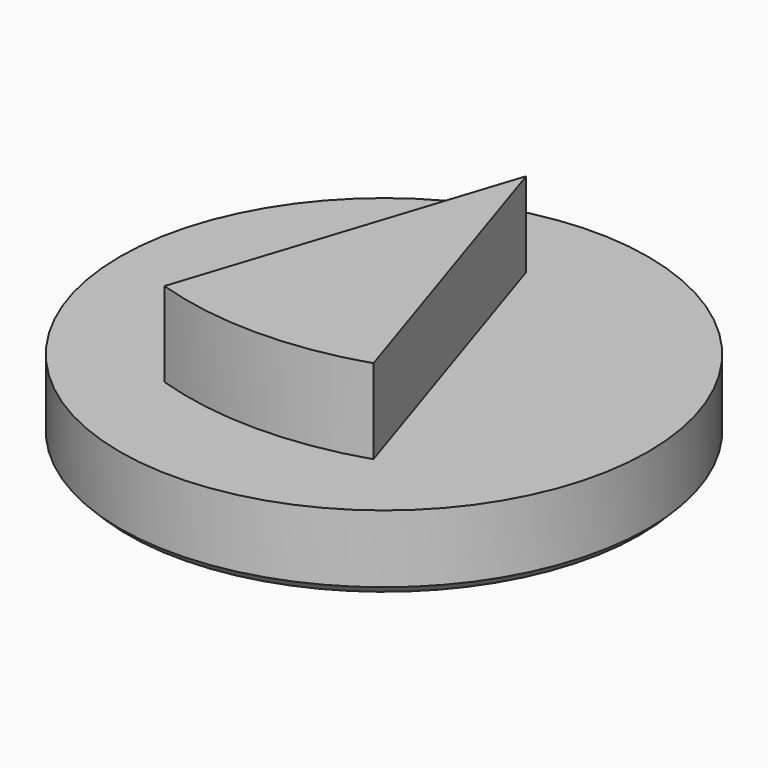
from build123d import *

# Parameters (mm, degrees)
F0_R     = 6.25
F1_DEPTH = 1.8
F3_DEPTH = 2
F4_SIZE  = 0.2


with BuildPart() as f1:
    # F0 (on Top) → F1 (new body)
    with BuildSketch(Plane.XY):
        Circle(F0_R)
    extrude(amount=F1_DEPTH)

    # F2 (on face) → F3 (join)
    with BuildSketch(Plane.XY.offset(1.8)):
        with BuildLine():
            Line((2.472136, -3.402603), (0, 4.205849))
            Line((0, 4.205849), (-2.472136, -3.402603))
            ThreePointArc((-2.472136, -3.402603), (0, -3.794151), (2.472136, -3.402603))
        make_face()
    extrude(amount=F3_DEPTH)

    # F4
    f4_edges = [f1.edges().sort_by_distance(p)[0] for p in [
        (-6.25, 0, 0),
    ]]
    chamfer(f4_edges, length=F4_SIZE)


solid = f1.part
